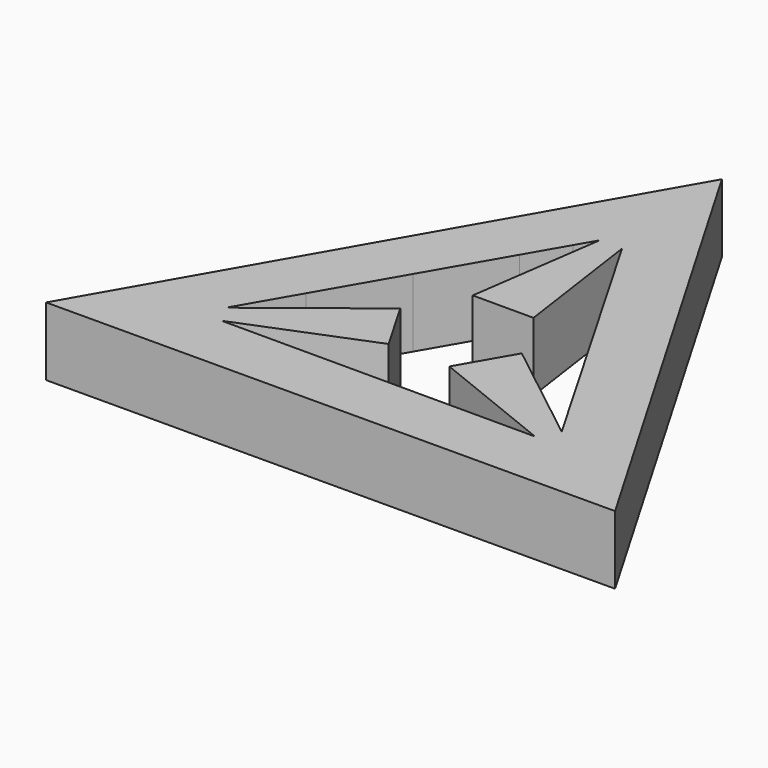
from build123d import *

# Parameters (mm, degrees)
F1_DEPTH = 25.4


with BuildPart() as f1:
    # F0 (on Top) → F1 (new body)
    with BuildSketch(Plane.XY):
        Polygon((-105.146734, -61.205373), (105.578775, -60.457056), (-0.432041, 121.66243), align=None)
        Polygon((62.332636, -31.189396), (66.488145, -38.386948), (58.177127, -38.386948), (49.866109, -38.386948), (33.244072, -38.386948), (0, -38.386948), (-33.244072, -38.386948), (-49.866109, -38.386948), (-58.177127, -38.386948), (-66.488145, -38.386948), (-62.332636, -31.189396), (-58.177127, -23.991843), (-49.866109, -9.596737), (-33.244072, 19.193474), (-16.622036, 47.983686), (-8.311018, 62.378791), (-4.155509, 69.576344), (0, 76.773897), (4.155509, 69.576344), (8.311018, 62.378791), (16.622036, 47.983686), (33.244072, 19.193474), (49.866109, -9.596737), (58.177127, -23.991843), align=None, mode=Mode.SUBTRACT)
        Polygon((-58.177127, -38.386948), (-11.280757, -19.538844), (-22.561514, 0), (-62.332636, -31.189396), (-66.488145, -38.386948), align=None)
        Polygon((0, 19.538844), (11.280757, 19.538844), (4.155509, 69.576344), (0, 76.773897), (-4.155509, 69.576344), (-11.280757, 19.538844), align=None)
        Polygon((58.177127, -38.386948), (66.488145, -38.386948), (62.332636, -31.189396), (22.561514, 0), (11.280757, -19.538844), align=None)
    extrude(amount=F1_DEPTH)


solid = f1.part
